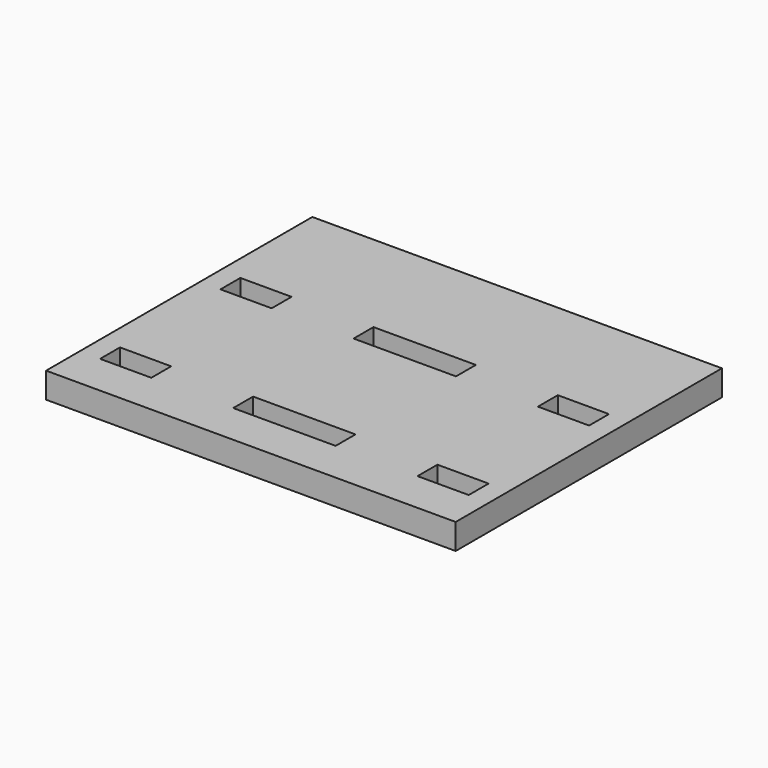
from build123d import *

# Parameters (mm, degrees)
F0_W     = 80
F0_H     = 15
F0_W_2   = 10
F0_H_2   = 4.85
F0_W_3   = 20
F0_H_3   = 50
F1_DEPTH = 5


with BuildPart() as f1:
    # F0 (on Top) → F1 (new body)
    with BuildSketch(Plane.XY):
        with Locations((0, -32.5)):
            Rectangle(F0_W, F0_H)
        with Locations((-31, -29.389005)):
            Rectangle(F0_W_2, F0_H_2, mode=Mode.SUBTRACT)
        with Locations((0, -29.389005)):
            Rectangle(F0_W_3, F0_H_2, mode=Mode.SUBTRACT)
        with Locations((31, -29.389005)):
            Rectangle(F0_W_2, F0_H_2, mode=Mode.SUBTRACT)
        Rectangle(F0_W, F0_H_3)
        with Locations((-31, 0)):
            Rectangle(F0_W_2, F0_H_2, mode=Mode.SUBTRACT)
        Rectangle(F0_W_3, F0_H_2, mode=Mode.SUBTRACT)
        with Locations((31, 0)):
            Rectangle(F0_W_2, F0_H_2, mode=Mode.SUBTRACT)
    extrude(amount=F1_DEPTH)


solid = f1.part
